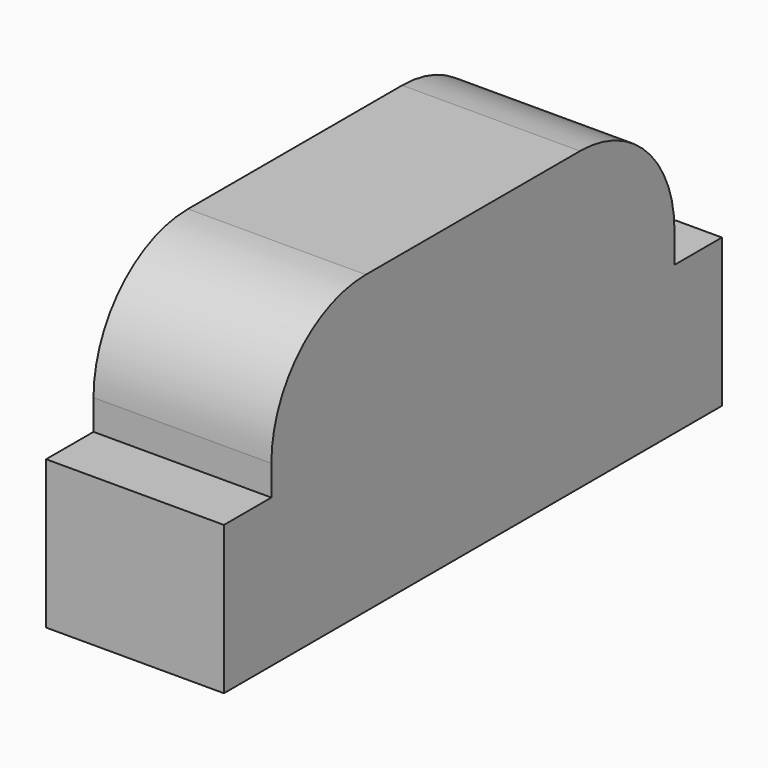
from build123d import *

# Parameters (mm, degrees)
F0_W     = 0.6
F0_H     = 1.7
F0_H_2   = 0.2
F1_DEPTH = 0.5
F2_DEPTH = 0.5
F3_R     = 0.398345


with BuildPart() as f1:
    # F0 (on Top) → F1 (new body)
    with BuildSketch(Plane.XY):
        Rectangle(F0_W, F0_H)
        with Locations((0, -0.95)):
            Rectangle(F0_W, F0_H_2)
        with Locations((0, 0.95)):
            Rectangle(F0_W, F0_H_2)
    extrude(amount=-F1_DEPTH)

    # F0 (on Top) → F2 (join)
    with BuildSketch(Plane.XY):
        Rectangle(F0_W, F0_H)
    extrude(amount=F2_DEPTH)

    # F3
    f3_edges = [f1.edges().sort_by_distance(p)[0] for p in [
        (0, -0.85, 0.5),
        (0, 0.85, 0.5),
    ]]
    fillet(f3_edges, radius=F3_R)


solid = f1.part
